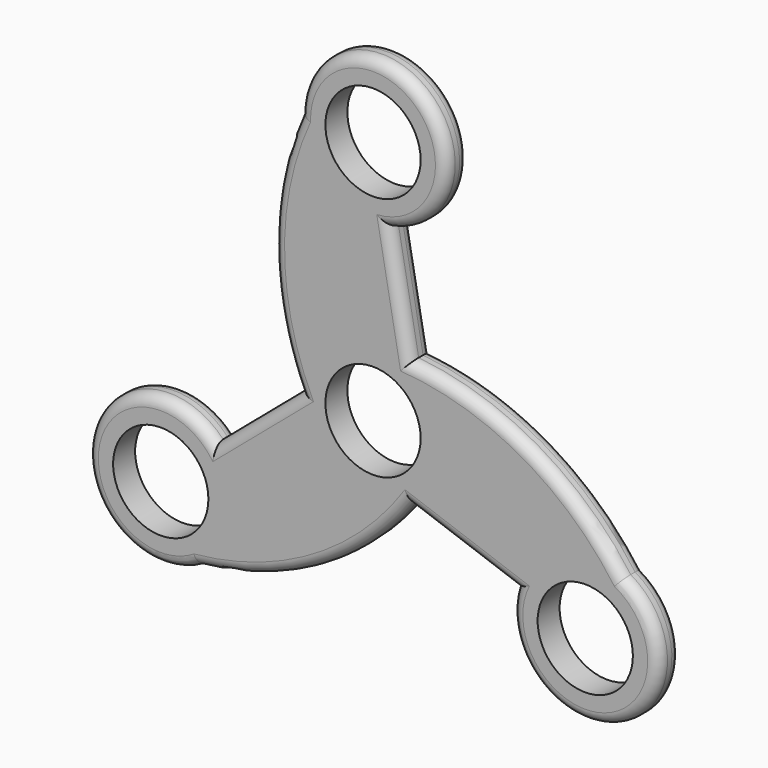
from build123d import *

# Parameters (mm, degrees)
F0_R     = 10.9982
F1_DEPTH = 6.35
F2_R     = 2.54
F3_R     = 2.54


with BuildPart() as f1:
    # F0 (on Front) → F1 (new body)
    with BuildSketch(Plane.XZ):
        with BuildLine():
            Line((8.5159837234, 14.5607172511), (3.8446686704, 40.084281416))
            ThreePointArc((3.8446686704, 40.084281416), (10.5460373968, 69.8853172917), (-16.9600595237, 56.6028207541))
            ThreePointArc((-16.9600595237, 56.6028207541), (-22.9785113541, 28.3388741339), (-16.8679428984, 0.0946996171))
            Line((-16.8679428984, 0.0946996171), (-36.6363403339, -16.7125599703))
            ThreePointArc((-36.6363403339, -16.7125599703), (-65.7954788246, -25.809522351), (-40.539450937, -42.9892527743))
            ThreePointArc((-40.539450937, -42.9892527743), (-13.0529292375, -34.0694116408), (8.3519591751, -14.6554168682))
            Line((8.3519591751, -14.6554168682), (32.7916716635, -23.3717214457))
            ThreePointArc((32.7916716635, -23.3717214457), (55.2494414278, -44.0757949408), (57.4995104607, -13.6135679798))
            ThreePointArc((57.4995104607, -13.6135679798), (36.0314405916, 5.7305375069), (8.5159837234, 14.5607172511))
        make_face()
        with Locations((-49.0194806989, -28.301410377)):
            Circle(F0_R, mode=Mode.SUBTRACT)
        with BuildLine():
            ThreePointArc((-16.8250545581, 0), (-16.8465166023, 0.0473417136), (-16.8679428984, 0.0946996171))
            Line((-16.8679428984, 0.0946996171), (-16.8245398748, 0.1316012369))
            ThreePointArc((-16.8245398748, 0.1316012369), (-16.8249258868, 0.0658011217), (-16.8250545581, 0))
        make_face(mode=Mode.SUBTRACT)
        with Locations((49.0194806989, -28.301410377)):
            Circle(F0_R, mode=Mode.SUBTRACT)
        with BuildLine():
            ThreePointArc((8.4125272791, -14.5709246674), (8.3822591745, -14.6131821997), (8.3519591751, -14.6554168682))
            Line((8.3519591751, -14.6554168682), (8.2982999231, -14.636279557))
            ThreePointArc((8.2982999231, -14.636279557), (8.3554775004, -14.6037137956), (8.4125272791, -14.5709246674))
        make_face(mode=Mode.SUBTRACT)
        Circle(F0_R, mode=Mode.SUBTRACT)
        with BuildLine():
            ThreePointArc((8.4125272791, 14.5709246674), (8.4642574278, 14.565840486), (8.5159837234, 14.5607172511))
            Line((8.5159837234, 14.5607172511), (8.5262399517, 14.5046783201))
            ThreePointArc((8.5262399517, 14.5046783201), (8.4694483864, 14.5379126739), (8.4125272791, 14.5709246674))
        make_face(mode=Mode.SUBTRACT)
        with Locations((0, 56.6028207541)):
            Circle(F0_R, mode=Mode.SUBTRACT)
        with BuildLine():
            Line((-16.8245398748, 0.1316012369), (-16.8679428984, 0.0946996171))
            ThreePointArc((-16.8679428984, 0.0946996171), (-16.8465166023, 0.0473417136), (-16.8250545581, 0))
            ThreePointArc((-16.8250545581, 0), (-16.8249258868, 0.0658011217), (-16.8245398748, 0.1316012369))
        make_face()
        with BuildLine():
            Line((8.2982999231, -14.636279557), (8.3519591751, -14.6554168682))
            ThreePointArc((8.3519591751, -14.6554168682), (8.3822591745, -14.6131821997), (8.4125272791, -14.5709246674))
            ThreePointArc((8.4125272791, -14.5709246674), (8.3554775004, -14.6037137956), (8.2982999231, -14.636279557))
        make_face()
        with BuildLine():
            Line((8.5262399517, 14.5046783201), (8.5159837234, 14.5607172511))
            ThreePointArc((8.5159837234, 14.5607172511), (8.4642574278, 14.565840486), (8.4125272791, 14.5709246674))
            ThreePointArc((8.4125272791, 14.5709246674), (8.4694483864, 14.5379126739), (8.5262399517, 14.5046783201))
        make_face()
    extrude(amount=F1_DEPTH)

    # F2
    f2_edges = [f1.edges().sort_by_distance(p)[0] for p in [
        (10.546037, -6.35, 69.885317),
        (6.180326, -6.35, 27.322499),
        (-22.978511, -6.35, 28.338874),
        (36.031441, -6.35, 5.730538),
        (55.249441, -6.35, -44.075795),
        (20.571815, -6.35, -19.013569),
        (-13.052929, -6.35, -34.069412),
        (-26.752142, -6.35, -8.30893),
        (-65.795479, -6.35, -25.809522),
    ]]
    fillet(f2_edges, radius=F2_R)

    # F3
    f3_edges = [f1.edges().sort_by_distance(p)[0] for p in [
        (10.546037, 0, 69.885317),
        (-22.978511, 0, 28.338874),
        (-26.752142, 0, -8.30893),
        (-65.795479, 0, -25.809522),
        (-13.052929, 0, -34.069412),
        (20.571815, 0, -19.013569),
        (55.249441, 0, -44.075795),
        (36.031441, 0, 5.730538),
        (6.180326, 0, 27.322499),
    ]]
    fillet(f3_edges, radius=F3_R)


solid = f1.part
